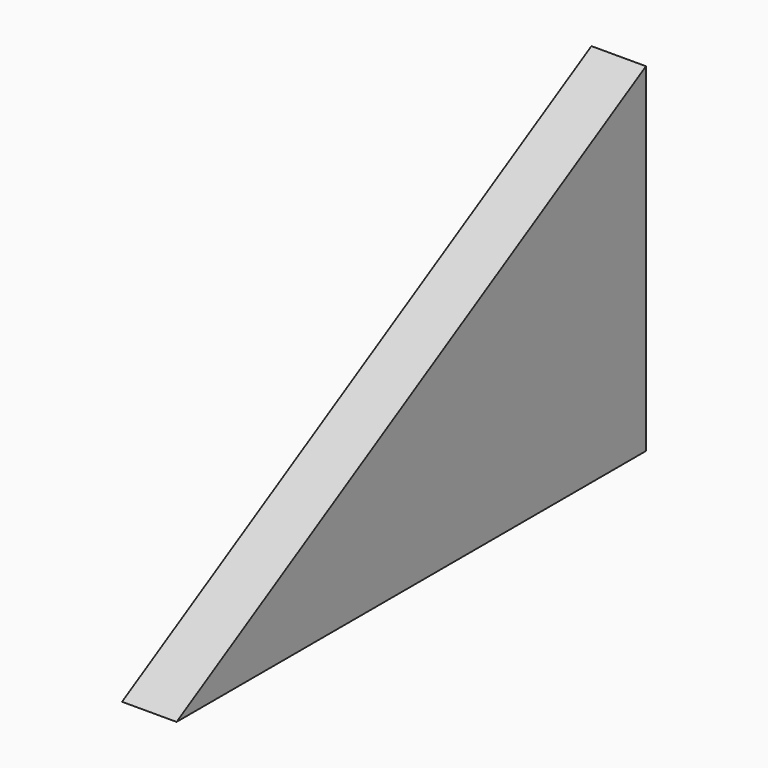
from build123d import *

# Parameters (mm, degrees)
F1_DEPTH = 12.7


with BuildPart() as f1:
    # F0 (on Right) → F1 (new body, symmetric)
    with BuildSketch(Plane.YZ):
        Polygon((0, 157.7721), (-273.269293, 0), (0, 0), align=None)
    extrude(amount=F1_DEPTH, both=True)


solid = f1.part
